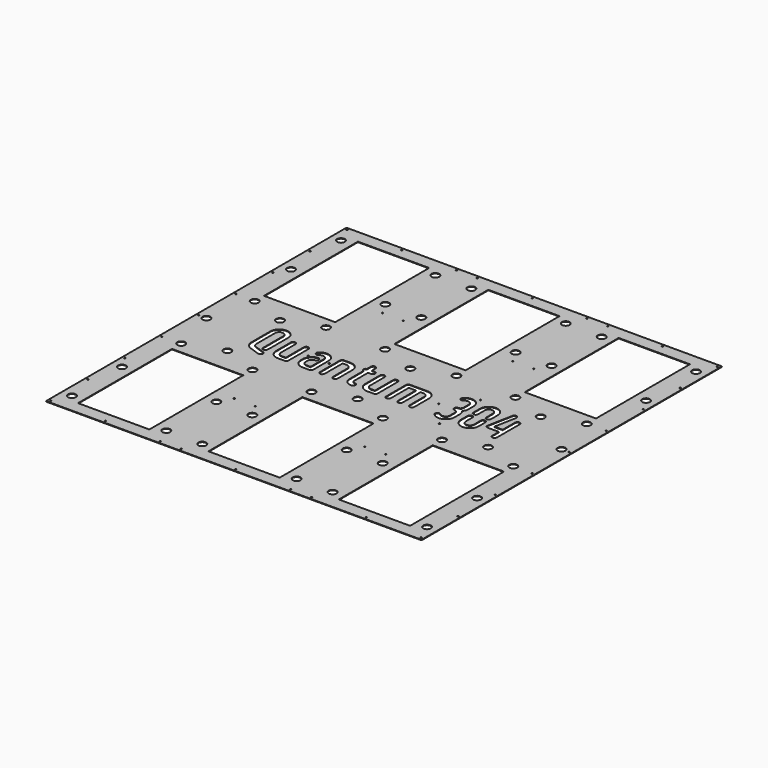
from build123d import *

# Parameters (mm, degrees)
F0_W     = 914.4
F0_H     = 914.4
F0_R     = 1.5875
F0_R_2   = 9.525
F0_W_2   = 173.5836
F0_H_2   = 286.004
F1_DEPTH = 1.27


with BuildPart() as f1:
    # F0 (on Top) → F1 (new body)
    with BuildSketch(Plane.XY):
        with Locations((-14.713987, 60.998162)):
            Rectangle(F0_W, F0_H)
        with Locations((-465.563987, -389.851838)):
            Circle(F0_R, mode=Mode.SUBTRACT)
        with Locations((-447.148987, -348.576838)):
            Circle(F0_R_2, mode=Mode.SUBTRACT)
        with Locations((-332.213987, -389.851838)):
            Circle(F0_R, mode=Mode.SUBTRACT)
        with Locations((-465.563987, -277.139338)):
            Circle(F0_R, mode=Mode.SUBTRACT)
        with Locations((-447.148987, -196.176838)):
            Circle(F0_R_2, mode=Mode.SUBTRACT)
        with Locations((-332.213987, -221.957838)):
            Rectangle(F0_W_2, F0_H_2, mode=Mode.SUBTRACT)
        with Locations((-198.863987, -389.851838)):
            Circle(F0_R, mode=Mode.SUBTRACT)
        with Locations((-217.278987, -348.576838)):
            Circle(F0_R_2, mode=Mode.SUBTRACT)
        with Locations((-148.063987, -389.851838)):
            Circle(F0_R, mode=Mode.SUBTRACT)
        with Locations((-129.648987, -348.576838)):
            Circle(F0_R_2, mode=Mode.SUBTRACT)
        with Locations((-217.278987, -196.176838)):
            Circle(F0_R_2, mode=Mode.SUBTRACT)
        with Locations((-129.648987, -196.176838)):
            Circle(F0_R_2, mode=Mode.SUBTRACT)
        with Locations((-465.563987, -164.426838)):
            Circle(F0_R, mode=Mode.SUBTRACT)
        with Locations((-465.563987, -51.714338)):
            Circle(F0_R, mode=Mode.SUBTRACT)
        with Locations((-419.005787, -50.888838)):
            Circle(F0_R_2, mode=Mode.SUBTRACT)
        with Locations((-465.563987, 60.998162)):
            Circle(F0_R, mode=Mode.SUBTRACT)
        with Locations((-447.148987, 60.998162)):
            Circle(F0_R_2, mode=Mode.SUBTRACT)
        with Locations((-332.213987, -19.138838)):
            Circle(F0_R_2, mode=Mode.SUBTRACT)
        with Locations((-245.422187, -50.888838)):
            Circle(F0_R_2, mode=Mode.SUBTRACT)
        with Locations((-198.863987, -164.426838)):
            Circle(F0_R, mode=Mode.SUBTRACT)
        with Locations((-148.063987, -164.426838)):
            Circle(F0_R, mode=Mode.SUBTRACT)
        Polygon((-258.894907, 34.111739), (-259.189737, 36.1757), (-259.337227, 38.387076), (-259.337227, 82.98294), (-259.263482, 83.498931), (-259.189737, 84.08859), (-259.042322, 84.604581), (-258.894907, 85.120571), (-258.673747, 85.636561), (-258.378917, 86.152551), (-258.010341, 86.594796), (-257.641842, 87.037117), (-257.199521, 87.405692), (-256.757276, 87.774192), (-256.241286, 88.069097), (-255.725296, 88.290182), (-255.209306, 88.437672), (-254.693315, 88.585087), (-254.103655, 88.658757), (-253.587665, 88.732502), (-252.99793, 88.658757), (-252.40827, 88.585087), (-251.89228, 88.437672), (-251.376289, 88.290182), (-250.860299, 88.069097), (-250.344309, 87.774192), (-249.902064, 87.405692), (-249.459744, 87.037117), (-249.091168, 86.594796), (-248.722669, 86.152551), (-248.427763, 85.636561), (-248.206678, 85.120571), (-248.059188, 84.604581), (-247.911773, 84.08859), (-247.838103, 83.498931), (-247.838103, 82.98294), (-247.838103, 38.387076), (-247.764358, 37.355095), (-247.616943, 36.396785), (-247.395783, 35.43855), (-247.100953, 34.553984), (-246.658708, 33.669494), (-246.142718, 32.858599), (-245.552982, 32.047778), (-244.889577, 31.236958), (-244.078757, 30.573553), (-243.267937, 29.983818), (-242.457117, 29.467903), (-241.572551, 29.025583), (-240.687986, 28.730753), (-239.729751, 28.509592), (-238.771515, 28.362177), (-237.739535, 28.288508), (-227.640967, 28.288508), (-227.640967, 82.98294), (-227.640967, 83.498931), (-227.567221, 84.08859), (-227.419806, 84.604581), (-227.272392, 85.120571), (-227.051231, 85.636561), (-226.756401, 86.152551), (-226.387826, 86.594796), (-226.019251, 87.037117), (-225.577006, 87.405692), (-225.134761, 87.774192), (-224.618771, 88.069097), (-224.102781, 88.290182), (-223.58679, 88.437672), (-223.0708, 88.585087), (-222.481065, 88.658757), (-221.891405, 88.732502), (-221.375415, 88.658757), (-220.785679, 88.585087), (-220.269689, 88.437672), (-219.753699, 88.290182), (-219.237784, 88.069097), (-218.721794, 87.774192), (-218.279473, 87.405692), (-217.837228, 87.037117), (-217.468653, 86.594796), (-217.100078, 86.152551), (-216.805248, 85.636561), (-216.584088, 85.120571), (-216.436673, 84.604581), (-216.289258, 84.08859), (-216.215513, 83.498931), (-216.141843, 82.98294), (-216.141843, 22.538946), (-216.215513, 22.022955), (-216.289258, 21.43322), (-216.436673, 20.91723), (-216.584088, 20.40124), (-216.805248, 19.885249), (-217.100078, 19.369259), (-217.468653, 18.927014), (-217.837228, 18.484769), (-218.279473, 18.116194), (-218.721794, 17.747619), (-219.237784, 17.452789), (-219.753699, 17.231629), (-220.269689, 17.084214), (-220.785679, 16.936799), (-221.375415, 16.863053), (-221.891405, 16.789384), (-237.739535, 16.789384), (-239.950911, 16.936799), (-242.014796, 17.231629), (-244.078757, 17.747619), (-245.995303, 18.411024), (-247.838103, 19.295589), (-249.680904, 20.40124), (-251.376289, 21.65438), (-252.99793, 23.128606), (-254.472155, 24.750321), (-255.725296, 26.445632), (-256.830946, 28.288508), (-257.715511, 30.131308), (-258.378917, 32.047778), align=None, mode=Mode.SUBTRACT)
        with Locations((-198.863987, 60.998162)):
            Circle(F0_R, mode=Mode.SUBTRACT)
        Polygon((-198.893157, 44.210308), (-198.819487, 46.421683), (-198.524582, 48.485644), (-198.008667, 50.549529), (-197.345186, 52.466075), (-196.386951, 54.308876), (-195.354971, 56.151676), (-194.02816, 57.847062), (-192.553935, 59.468702), (-191.153379, 60.795588), (-189.605409, 61.901238), (-188.057514, 62.933219), (-186.435798, 63.817784), (-184.740412, 64.481189), (-182.971357, 65.070849), (-181.128556, 65.439425), (-179.285756, 65.734254), (-178.548605, 65.660585), (-177.8852, 65.586839), (-177.295465, 65.439425), (-176.705805, 65.29201), (-176.116069, 64.99718), (-175.600155, 64.702274), (-175.157834, 64.407444), (-174.715589, 63.965199), (-174.347014, 63.522879), (-173.978439, 63.080634), (-173.683609, 62.564644), (-173.462449, 62.122399), (-173.241364, 61.606408), (-173.093873, 61.090418), (-173.020204, 60.500683), (-173.020204, 59.984693), (-173.020204, 59.395033), (-173.093873, 58.805297), (-173.241364, 58.289307), (-173.462449, 57.773392), (-173.683609, 57.257402), (-173.978439, 56.815082), (-174.273269, 56.372837), (-174.641844, 55.930516), (-175.084165, 55.562016), (-175.452664, 55.267111), (-175.894985, 54.972281), (-176.33723, 54.751121), (-176.77955, 54.530036), (-177.221795, 54.382621), (-177.66404, 54.308876), (-178.18003, 54.235206), (-179.064596, 54.087716), (-179.949161, 53.940301), (-180.759981, 53.719216), (-181.570801, 53.350641), (-182.307952, 52.982065), (-183.045027, 52.466075), (-183.782177, 51.950085), (-184.445582, 51.28668), (-185.108988, 50.549529), (-185.772393, 49.738709), (-186.214713, 48.927889), (-186.656958, 48.043324), (-186.951788, 47.158834), (-187.246618, 46.200523), (-187.320363, 45.242288), (-187.394109, 44.210308), (-187.394109, 38.387076), (-187.320363, 37.355095), (-187.246618, 36.396785), (-186.951788, 35.43855), (-186.656958, 34.553984), (-186.214713, 33.669494), (-185.772393, 32.858599), (-185.108988, 32.047778), (-184.445582, 31.236958), (-183.708432, 30.573553), (-182.897612, 29.983818), (-182.086792, 29.467903), (-181.202226, 29.025583), (-180.317736, 28.730753), (-179.359426, 28.509592), (-178.327445, 28.362177), (-177.295465, 28.288508), (-167.270642, 28.288508), (-167.270642, 68.535366), (-167.344387, 69.493601), (-167.491802, 70.525581), (-167.712887, 71.483816), (-168.081462, 72.368382), (-168.450037, 73.252947), (-168.966027, 74.063767), (-169.555687, 74.874588), (-170.219092, 75.611738), (-171.029988, 76.275143), (-171.767063, 76.938548), (-172.651628, 77.380793), (-173.462449, 77.823114), (-174.420759, 78.117944), (-175.378994, 78.412774), (-176.33723, 78.486519), (-177.36921, 78.560189), (-178.40119, 78.486519), (-179.433171, 78.339029), (-180.391406, 78.117944), (-181.275971, 77.823114), (-182.160537, 77.380793), (-183.045027, 76.864803), (-183.855922, 76.275143), (-184.666743, 75.537993), (-185.035318, 75.169418), (-185.477563, 74.800842), (-185.993553, 74.506012), (-186.435798, 74.284928), (-186.951788, 74.063767), (-187.541524, 73.916352), (-188.057514, 73.842607), (-188.720919, 73.842607), (-189.236909, 73.842607), (-189.826569, 73.916352), (-190.342559, 74.063767), (-190.85855, 74.211182), (-191.37454, 74.506012), (-191.89053, 74.800842), (-192.332775, 75.095748), (-192.775095, 75.537993), (-193.143595, 75.906568), (-193.51217, 76.422558), (-193.807, 76.864803), (-194.02816, 77.380793), (-194.175575, 77.896784), (-194.32299, 78.412774), (-194.396736, 79.002509), (-194.470481, 79.592169), (-194.396736, 80.108159), (-194.32299, 80.697819), (-194.175575, 81.21381), (-194.02816, 81.7298), (-193.807, 82.24579), (-193.51217, 82.68811), (-193.143595, 83.130355), (-192.775095, 83.5726), (-191.153379, 85.120571), (-189.384324, 86.447381), (-187.615193, 87.553107), (-185.698723, 88.511342), (-183.708432, 89.248492), (-181.718216, 89.690737), (-179.580586, 90.059313), (-177.36921, 90.132982), (-175.231579, 90.059313), (-173.093873, 89.764483), (-171.103658, 89.248492), (-169.113442, 88.585087), (-167.270642, 87.626777), (-165.501511, 86.594796), (-163.806201, 85.267986), (-162.184485, 83.793761), (-160.71026, 82.17212), (-159.383449, 80.476735), (-158.277724, 78.707604), (-157.393234, 76.791133), (-156.729829, 74.874588), (-156.213838, 72.810627), (-155.918933, 70.672996), (-155.771518, 68.535366), (-155.771518, 22.538946), (-155.771518, 22.022955), (-155.845263, 21.43322), (-155.992678, 20.91723), (-156.213838, 20.40124), (-156.434923, 19.885249), (-156.729829, 19.369259), (-157.098328, 18.927014), (-157.466903, 18.484769), (-157.909224, 18.116194), (-158.351469, 17.747619), (-158.793714, 17.452789), (-159.309704, 17.231629), (-159.825694, 17.084214), (-160.341684, 16.936799), (-160.93142, 16.863053), (-161.52108, 16.789384), (-177.295465, 16.789384), (-179.506841, 16.936799), (-181.644547, 17.231629), (-183.634762, 17.747619), (-185.624978, 18.411024), (-187.467778, 19.295589), (-189.236909, 20.40124), (-190.932295, 21.65438), (-192.553935, 23.128606), (-194.02816, 24.750321), (-195.354971, 26.445632), (-196.386951, 28.288508), (-197.345186, 30.131308), (-198.008667, 32.047778), (-198.524582, 34.111739), (-198.819487, 36.1757), (-198.893157, 38.387076), align=None, mode=Mode.SUBTRACT)
        with Locations((-148.063987, 60.998162)):
            Circle(F0_R, mode=Mode.SUBTRACT)
        with Locations((-101.505787, -50.888838)):
            Circle(F0_R_2, mode=Mode.SUBTRACT)
        Polygon((-139.702303, 20.91723), (-139.849718, 21.43322), (-139.923388, 22.022955), (-139.923388, 22.538946), (-139.923388, 82.98294), (-139.923388, 83.498931), (-139.849718, 84.08859), (-139.702303, 84.604581), (-139.481143, 85.120571), (-139.259982, 85.636561), (-138.965152, 86.152551), (-138.596577, 86.594796), (-138.228002, 87.037117), (-137.785757, 87.405692), (-137.343512, 87.774192), (-136.901192, 88.069097), (-136.385201, 88.290182), (-135.869211, 88.437672), (-135.353221, 88.585087), (-134.763561, 88.658757), (-134.173826, 88.732502), (-118.399441, 88.732502), (-116.188065, 88.585087), (-114.050434, 88.290182), (-112.060219, 87.774192), (-110.069928, 87.110786), (-108.227127, 86.226297), (-106.458072, 85.120571), (-104.762686, 83.867506), (-103.141046, 82.393205), (-101.666745, 80.771565), (-100.339935, 79.076179), (-99.307954, 77.233378), (-98.349719, 75.390578), (-97.686314, 73.474032), (-97.170324, 71.410147), (-96.875494, 69.346186), (-96.801749, 67.13481), (-96.801749, 22.538946), (-96.801749, 22.022955), (-96.875494, 21.43322), (-97.022909, 20.91723), (-97.244069, 20.40124), (-97.465154, 19.885249), (-97.760059, 19.369259), (-98.128559, 18.927014), (-98.497134, 18.484769), (-98.939455, 18.116194), (-99.3817, 17.747619), (-99.823944, 17.452789), (-100.339935, 17.231629), (-100.855925, 17.084214), (-101.371915, 16.936799), (-101.961651, 16.863053), (-102.55131, 16.789384), (-103.141046, 16.863053), (-103.730706, 16.936799), (-104.246696, 17.084214), (-104.762686, 17.231629), (-105.278676, 17.452789), (-105.720921, 17.747619), (-106.163242, 18.116194), (-106.605487, 18.484769), (-106.974062, 18.927014), (-107.342637, 19.369259), (-107.637467, 19.885249), (-107.858627, 20.40124), (-108.079712, 20.91723), (-108.227127, 21.43322), (-108.300872, 22.022955), (-108.300872, 22.538946), (-108.300872, 67.13481), (-108.374618, 68.16679), (-108.448287, 69.125026), (-108.743117, 70.083261), (-109.038023, 70.967826), (-109.480268, 71.852392), (-109.922513, 72.663212), (-110.585918, 73.474032), (-111.249323, 74.284928), (-111.986474, 74.948333), (-112.797294, 75.537993), (-113.608114, 76.053983), (-114.492679, 76.496228), (-115.377245, 76.791133), (-116.33548, 77.012218), (-117.36746, 77.159633), (-118.399441, 77.233378), (-128.424339, 77.233378), (-128.424339, 22.538946), (-128.424339, 22.022955), (-128.498009, 21.43322), (-128.645424, 20.91723), (-128.866584, 20.40124), (-129.087744, 19.885249), (-129.382574, 19.369259), (-129.75115, 18.927014), (-130.119649, 18.484769), (-130.56197, 18.116194), (-131.004215, 17.747619), (-131.446535, 17.452789), (-131.962525, 17.231629), (-132.47844, 17.084214), (-132.99443, 16.936799), (-133.584166, 16.863053), (-134.173826, 16.789384), (-134.763561, 16.863053), (-135.353221, 16.936799), (-135.869211, 17.084214), (-136.385201, 17.231629), (-136.901192, 17.452789), (-137.343512, 17.747619), (-137.785757, 18.116194), (-138.228002, 18.484769), (-138.596577, 18.927014), (-138.965152, 19.369259), (-139.259982, 19.885249), (-139.481143, 20.40124), align=None, mode=Mode.SUBTRACT)
        Polygon((-41.738741, 34.111739), (-42.033571, 36.1757), (-42.180986, 38.387076), (-42.180986, 82.98294), (-42.107316, 83.498931), (-42.033571, 84.08859), (-41.886156, 84.604581), (-41.738741, 85.120571), (-41.51758, 85.636561), (-41.22275, 86.152551), (-40.854175, 86.594796), (-40.4856, 87.037117), (-40.043355, 87.405692), (-39.60111, 87.774192), (-39.08512, 88.069097), (-38.56913, 88.290182), (-38.053139, 88.437672), (-37.537149, 88.585087), (-36.947414, 88.658757), (-36.431499, 88.732502), (-35.841764, 88.658757), (-35.252104, 88.585087), (-34.736113, 88.437672), (-34.220123, 88.290182), (-33.704133, 88.069097), (-33.188143, 87.774192), (-32.745822, 87.405692), (-32.303577, 87.037117), (-31.935002, 86.594796), (-31.566427, 86.152551), (-31.271597, 85.636561), (-31.050437, 85.120571), (-30.903022, 84.604581), (-30.755607, 84.08859), (-30.681937, 83.498931), (-30.681937, 82.98294), (-30.681937, 38.387076), (-30.608192, 37.355095), (-30.460777, 36.396785), (-30.239617, 35.43855), (-29.944787, 34.553984), (-29.502542, 33.669494), (-28.986552, 32.858599), (-28.396816, 32.047778), (-27.733411, 31.236958), (-26.922591, 30.573553), (-26.111771, 29.983818), (-25.30095, 29.467903), (-24.416385, 29.025583), (-23.53182, 28.730753), (-22.573584, 28.509592), (-21.615274, 28.362177), (-20.583369, 28.288508), (-10.484801, 28.288508), (-10.484801, 82.98294), (-10.484801, 83.498931), (-10.411055, 84.08859), (-10.26364, 84.604581), (-10.116225, 85.120571), (-9.895065, 85.636561), (-9.600235, 86.152551), (-9.23166, 86.594796), (-8.863085, 87.037117), (-8.42084, 87.405692), (-7.978519, 87.774192), (-7.462529, 88.069097), (-6.946614, 88.290182), (-6.430624, 88.437672), (-5.914634, 88.585087), (-5.324899, 88.658757), (-4.735239, 88.732502), (-4.219248, 88.658757), (-3.629513, 88.585087), (-3.113523, 88.437672), (-2.597533, 88.290182), (-2.081542, 88.069097), (-1.565552, 87.774192), (-1.123307, 87.405692), (-0.681062, 87.037117), (-0.312487, 86.594796), (0.056088, 86.152551), (0.350918, 85.636561), (0.572078, 85.120571), (0.719493, 84.604581), (0.866908, 84.08859), (0.940654, 83.498931), (1.014323, 82.98294), (1.014323, 22.538946), (0.940654, 22.022955), (0.866908, 21.43322), (0.719493, 20.91723), (0.572078, 20.40124), (0.350918, 19.885249), (0.056088, 19.369259), (-0.312487, 18.927014), (-0.681062, 18.484769), (-1.123307, 18.116194), (-1.565552, 17.747619), (-2.081542, 17.452789), (-2.597533, 17.231629), (-3.113523, 17.084214), (-3.629513, 16.936799), (-4.219248, 16.863053), (-4.735239, 16.789384), (-20.583369, 16.789384), (-22.794669, 16.936799), (-24.85863, 17.231629), (-26.922591, 17.747619), (-28.839137, 18.411024), (-30.681937, 19.295589), (-32.524738, 20.40124), (-34.220123, 21.65438), (-35.841764, 23.128606), (-37.315989, 24.750321), (-38.56913, 26.445632), (-39.67478, 28.288508), (-40.559345, 30.131308), (-41.22275, 32.047778), align=None, mode=Mode.SUBTRACT)
        with Locations((-14.713987, -389.851838)):
            Circle(F0_R, mode=Mode.SUBTRACT)
        with Locations((118.636013, -389.851838)):
            Circle(F0_R, mode=Mode.SUBTRACT)
        with Locations((100.221013, -348.576838)):
            Circle(F0_R_2, mode=Mode.SUBTRACT)
        with Locations((169.436013, -389.851838)):
            Circle(F0_R, mode=Mode.SUBTRACT)
        with Locations((187.851013, -348.576838)):
            Circle(F0_R_2, mode=Mode.SUBTRACT)
        with Locations((-14.713987, -221.957838)):
            Rectangle(F0_W_2, F0_H_2, mode=Mode.SUBTRACT)
        with Locations((100.221013, -196.176838)):
            Circle(F0_R_2, mode=Mode.SUBTRACT)
        with Locations((187.851013, -196.176838)):
            Circle(F0_R_2, mode=Mode.SUBTRACT)
        with Locations((302.786013, -389.851838)):
            Circle(F0_R, mode=Mode.SUBTRACT)
        with Locations((436.136013, -389.851838)):
            Circle(F0_R, mode=Mode.SUBTRACT)
        with Locations((417.721013, -348.576838)):
            Circle(F0_R_2, mode=Mode.SUBTRACT)
        with Locations((302.786013, -221.957838)):
            Rectangle(F0_W_2, F0_H_2, mode=Mode.SUBTRACT)
        with Locations((436.136013, -277.139338)):
            Circle(F0_R, mode=Mode.SUBTRACT)
        with Locations((417.721013, -196.176838)):
            Circle(F0_R_2, mode=Mode.SUBTRACT)
        with Locations((118.636013, -164.426838)):
            Circle(F0_R, mode=Mode.SUBTRACT)
        with Locations((169.436013, -164.426838)):
            Circle(F0_R, mode=Mode.SUBTRACT)
        with Locations((-14.713987, -19.138838)):
            Circle(F0_R_2, mode=Mode.SUBTRACT)
        with Locations((72.077813, -50.888838)):
            Circle(F0_R_2, mode=Mode.SUBTRACT)
        Polygon((21.358875, 20.91723), (21.21146, 21.43322), (21.13779, 22.022955), (21.13779, 22.538946), (21.13779, 82.98294), (21.13779, 83.498931), (21.21146, 84.08859), (21.358875, 84.604581), (21.580035, 85.120571), (21.801195, 85.636561), (22.096025, 86.152551), (22.464601, 86.594796), (22.833176, 87.037117), (23.275421, 87.405692), (23.717666, 87.774192), (24.159986, 88.069097), (24.675976, 88.290182), (25.191967, 88.437672), (25.707957, 88.585087), (26.297617, 88.658757), (26.887352, 88.732502), (68.608436, 88.732502), (70.746066, 88.585087), (72.883772, 88.290182), (74.873988, 87.774192), (76.864203, 87.110786), (78.707004, 86.226297), (80.476135, 85.120571), (82.17152, 83.867506), (83.793161, 82.393205), (85.267386, 80.771565), (86.594196, 79.076179), (87.626177, 77.233378), (88.584412, 75.390578), (89.247893, 73.474032), (89.763807, 71.410147), (90.058713, 69.346186), (90.132383, 67.13481), (90.132383, 22.538946), (90.132383, 22.022955), (90.058713, 21.43322), (89.911298, 20.91723), (89.690138, 20.40124), (89.468977, 19.885249), (89.174147, 19.369259), (88.805572, 18.927014), (88.436997, 18.484769), (87.994752, 18.116194), (87.552507, 17.747619), (87.110187, 17.452789), (86.594196, 17.231629), (86.078206, 17.084214), (85.562216, 16.936799), (84.972556, 16.863053), (84.382821, 16.789384), (83.793161, 16.863053), (83.203425, 16.936799), (82.687435, 17.084214), (82.17152, 17.231629), (81.65553, 17.452789), (81.21321, 17.747619), (80.770965, 18.116194), (80.328644, 18.484769), (79.960145, 18.927014), (79.591569, 19.369259), (79.296739, 19.885249), (79.075579, 20.40124), (78.854419, 20.91723), (78.707004, 21.43322), (78.633334, 22.022955), (78.633334, 22.538946), (78.633334, 67.13481), (78.559589, 68.16679), (78.485844, 69.125026), (78.191014, 70.083261), (77.896184, 70.967826), (77.453939, 71.852392), (77.011618, 72.663212), (76.348213, 73.474032), (75.684808, 74.284928), (74.947657, 74.948333), (74.136837, 75.537993), (73.326017, 76.053983), (72.441452, 76.496228), (71.556962, 76.791133), (70.598651, 77.012218), (69.566671, 77.159633), (68.608436, 77.233378), (61.384648, 77.233378), (61.384648, 22.538946), (61.384648, 22.022955), (61.310903, 21.43322), (61.163488, 20.91723), (60.942403, 20.40124), (60.721243, 19.885249), (60.426413, 19.369259), (60.057838, 18.927014), (59.689263, 18.484769), (59.247018, 18.116194), (58.804697, 17.747619), (58.362452, 17.452789), (57.846462, 17.231629), (57.330472, 17.084214), (56.814482, 16.936799), (56.224822, 16.863053), (55.635086, 16.789384), (55.045426, 16.863053), (54.455691, 16.936799), (53.939701, 17.084214), (53.423711, 17.231629), (52.90772, 17.452789), (52.465475, 17.747619), (52.023155, 18.116194), (51.58091, 18.484769), (51.212335, 18.927014), (50.84376, 19.369259), (50.54893, 19.885249), (50.327845, 20.40124), (50.106685, 20.91723), (49.95927, 21.43322), (49.885524, 22.022955), (49.885524, 22.538946), (49.885524, 77.233378), (32.636914, 77.233378), (32.636914, 22.538946), (32.636914, 22.022955), (32.563169, 21.43322), (32.415754, 20.91723), (32.194594, 20.40124), (31.973433, 19.885249), (31.678603, 19.369259), (31.310028, 18.927014), (30.941528, 18.484769), (30.499208, 18.116194), (30.056963, 17.747619), (29.614643, 17.452789), (29.098728, 17.231629), (28.582738, 17.084214), (28.066747, 16.936799), (27.477012, 16.863053), (26.887352, 16.789384), (26.297617, 16.863053), (25.707957, 16.936799), (25.191967, 17.084214), (24.675976, 17.231629), (24.159986, 17.452789), (23.717666, 17.747619), (23.275421, 18.116194), (22.833176, 18.484769), (22.464601, 18.927014), (22.096025, 19.369259), (21.801195, 19.885249), (21.580035, 20.40124), align=None, mode=Mode.SUBTRACT)
        with Locations((170.332081, -1.426666)):
            Circle(F0_R, mode=Mode.SUBTRACT)
        Polygon((192.592366, 32.637514), (192.297536, 34.775144), (192.150121, 36.98652), (192.150121, 57.036242), (192.223791, 57.552232), (192.297536, 58.141892), (192.444951, 58.657882), (192.592366, 59.173872), (192.813526, 59.689863), (193.108356, 60.205853), (193.476932, 60.648098), (193.845507, 61.090418), (194.287752, 61.458993), (194.729997, 61.827493), (195.245987, 62.122399), (195.761977, 62.343483), (196.277967, 62.490974), (196.793958, 62.638389), (197.383693, 62.712059), (197.899683, 62.785804), (198.489343, 62.712059), (199.079079, 62.638389), (199.595069, 62.490974), (200.111059, 62.343483), (200.626974, 62.122399), (201.142964, 61.827493), (201.585284, 61.458993), (202.027529, 61.090418), (202.396105, 60.648098), (202.76468, 60.205853), (203.05951, 59.689863), (203.28067, 59.173872), (203.428085, 58.657882), (203.5755, 58.141892), (203.649245, 57.552232), (203.649245, 57.036242), (203.649245, 36.98652), (203.722915, 35.95454), (203.87033, 34.922559), (204.09149, 33.964324), (204.38632, 33.079759), (204.828641, 32.195193), (205.344555, 31.384373), (205.934291, 30.573553), (206.597696, 29.836403), (207.408516, 29.172997), (208.219336, 28.509592), (209.030232, 28.067347), (209.914722, 27.625027), (210.799287, 27.330197), (211.757522, 27.035367), (212.715833, 26.961622), (213.747813, 26.887952), (214.779718, 26.961622), (215.738029, 27.035367), (216.696264, 27.330197), (217.58083, 27.625027), (218.465395, 28.067347), (219.276215, 28.509592), (220.087035, 29.172997), (220.897855, 29.836403), (221.561261, 30.573553), (222.150996, 31.384373), (222.666986, 32.195193), (223.109231, 33.079759), (223.404061, 33.964324), (223.625221, 34.922559), (223.772636, 35.95454), (223.846382, 36.98652), (223.846382, 57.036242), (223.846382, 57.552232), (223.920051, 58.141892), (224.067466, 58.657882), (224.214881, 59.173872), (224.436042, 59.689863), (224.730872, 60.205853), (225.099447, 60.648098), (225.468022, 61.090418), (225.910267, 61.458993), (226.352587, 61.827493), (226.868578, 62.122399), (227.384568, 62.343483), (227.900558, 62.490974), (228.416548, 62.638389), (229.006208, 62.712059), (229.595944, 62.785804), (230.111858, 62.712059), (230.701594, 62.638389), (231.217584, 62.490974), (231.733574, 62.343483), (232.249564, 62.122399), (232.765555, 61.827493), (233.2078, 61.458993), (233.650045, 61.090418), (234.01862, 60.648098), (234.387195, 60.205853), (234.682025, 59.689863), (234.903185, 59.173872), (235.0506, 58.657882), (235.198015, 58.141892), (235.27176, 57.552232), (235.34543, 57.036242), (235.34543, 36.98652), (235.198015, 34.775144), (234.903185, 32.637514), (234.387195, 30.647298), (233.72379, 28.657007), (232.839224, 26.814207), (231.733574, 25.045151), (230.480434, 23.349766), (229.006208, 21.72805), (227.384568, 20.253825), (225.689182, 18.927014), (223.846382, 17.895034), (222.003581, 16.936799), (220.087035, 16.273393), (218.023075, 15.757403), (215.959114, 15.462573), (213.747813, 15.388828), (211.536438, 15.462573), (209.472477, 15.757403), (207.408516, 16.273393), (205.492046, 16.936799), (203.649245, 17.895034), (201.806369, 18.927014), (200.111059, 20.253825), (198.489343, 21.72805), (197.015118, 23.349766), (195.761977, 25.045151), (194.656327, 26.814207), (193.771762, 28.657007), (193.108356, 30.647298), align=None, mode=Mode.SUBTRACT)
        with Locations((436.136013, -164.426838)):
            Circle(F0_R, mode=Mode.SUBTRACT)
        with Locations((215.994213, -50.888838)):
            Circle(F0_R_2, mode=Mode.SUBTRACT)
        with Locations((302.786013, -19.138838)):
            Circle(F0_R_2, mode=Mode.SUBTRACT)
        with Locations((389.577813, -50.888838)):
            Circle(F0_R_2, mode=Mode.SUBTRACT)
        with Locations((436.136013, -51.714338)):
            Circle(F0_R, mode=Mode.SUBTRACT)
        with Locations((-465.563987, 173.710662)):
            Circle(F0_R, mode=Mode.SUBTRACT)
        with Locations((-419.005787, 172.885162)):
            Circle(F0_R_2, mode=Mode.SUBTRACT)
        Polygon((-318.233251, 94.482064), (-318.159506, 96.619695), (-317.864676, 98.757325), (-317.348686, 100.747541), (-316.685281, 102.737832), (-315.727046, 104.580632), (-314.695065, 106.349688), (-313.368255, 108.045073), (-311.894029, 109.666789), (-310.272314, 111.141015), (-308.576928, 112.467825), (-306.807873, 113.499805), (-304.965072, 114.458041), (-302.974856, 115.121446), (-300.984565, 115.637436), (-298.846935, 115.932266), (-296.635559, 116.006011), (-294.497929, 115.932266), (-292.360298, 115.637436), (-290.370007, 115.121446), (-288.379791, 114.458041), (-286.536991, 113.499805), (-284.767935, 112.467825), (-283.07255, 111.141015), (-281.450834, 109.666789), (-279.976609, 108.045073), (-278.649798, 106.349688), (-277.617818, 104.580632), (-276.659583, 102.737832), (-275.996178, 100.747541), (-275.480187, 98.757325), (-275.185282, 96.619695), (-275.111612, 94.482064), (-275.111612, 36.98652), (-275.111612, 36.323115), (-275.111612, 35.65971), (-275.185282, 34.996305), (-275.259027, 34.332899), (-275.332772, 33.743164), (-275.406442, 33.079759), (-275.480187, 32.490099), (-275.627602, 31.826694), (-275.701272, 31.458119), (-275.848763, 31.015798), (-275.996178, 30.647298), (-276.143593, 30.278723), (-276.364677, 29.983818), (-276.585838, 29.615318), (-276.880668, 29.320412), (-277.175573, 28.951913), (-277.617818, 28.583338), (-278.133808, 28.214762), (-278.576053, 27.919932), (-279.092043, 27.698772), (-279.608033, 27.477612), (-280.124024, 27.330197), (-280.713759, 27.256527), (-281.303419, 27.256527), (-281.893155, 27.256527), (-282.409145, 27.330197), (-282.998805, 27.477612), (-283.514795, 27.698772), (-283.95704, 27.919932), (-284.47303, 28.214762), (-284.91535, 28.509592), (-285.357595, 28.951913), (-285.726171, 29.394158), (-286.094746, 29.836403), (-286.389576, 30.278723), (-286.610736, 30.794713), (-286.831821, 31.310704), (-286.905566, 31.826694), (-286.979236, 32.416354), (-287.052981, 33.006089), (-287.052981, 33.153504), (-287.052981, 33.300919), (-287.052981, 33.448334), (-287.052981, 33.595749), (-286.979236, 33.743164), (-286.979236, 33.964324), (-286.979236, 34.111739), (-286.979236, 34.259154), (-286.905566, 34.627729), (-286.831821, 34.922559), (-286.758151, 35.291135), (-286.684406, 35.585965), (-286.684406, 35.95454), (-286.610736, 36.24937), (-286.610736, 36.617945), (-286.610736, 36.98652), (-286.610736, 94.482064), (-286.684406, 95.440299), (-286.758151, 96.47228), (-287.052981, 97.430515), (-287.347811, 98.31508), (-287.790131, 99.199646), (-288.232376, 100.010466), (-288.895782, 100.821286), (-289.559187, 101.558437), (-290.296337, 102.221842), (-291.107157, 102.885247), (-291.917978, 103.327492), (-292.802543, 103.769812), (-293.687108, 104.064642), (-294.645344, 104.359472), (-295.677324, 104.433218), (-296.635559, 104.506887), (-297.66754, 104.433218), (-298.69952, 104.359472), (-299.657755, 104.064642), (-300.54232, 103.769812), (-301.426886, 103.327492), (-302.237706, 102.885247), (-303.048526, 102.221842), (-303.785677, 101.558437), (-304.449082, 100.821286), (-305.112487, 100.010466), (-305.554732, 99.199646), (-305.997052, 98.31508), (-306.291882, 97.430515), (-306.586712, 96.47228), (-306.660458, 95.440299), (-306.734127, 94.482064), (-306.734127, 36.98652), (-306.660458, 35.95454), (-306.586712, 34.996305), (-306.365552, 34.111739), (-306.070722, 33.227174), (-305.628477, 32.416354), (-305.186157, 31.679203), (-304.596497, 30.942128), (-303.933092, 30.278723), (-303.269686, 29.688988), (-302.532536, 29.099328), (-301.795461, 28.583338), (-300.984565, 28.141017), (-300.24749, 27.772517), (-299.362925, 27.403942), (-298.552105, 27.109112), (-297.66754, 26.814207), (-275.627602, 19.148174), (-275.037867, 18.927014), (-274.521877, 18.632184), (-274.079632, 18.337354), (-273.637387, 17.968779), (-273.195066, 17.600204), (-272.826491, 17.157959), (-272.531661, 16.715638), (-272.236831, 16.199648), (-272.089416, 15.831073), (-272.015671, 15.536243), (-271.868256, 15.241413), (-271.794586, 14.872838), (-271.720841, 14.578008), (-271.720841, 14.283178), (-271.647096, 13.988272), (-271.647096, 13.693442), (-271.647096, 13.472282), (-271.647096, 13.251198), (-271.720841, 13.030037), (-271.720841, 12.808877), (-271.794586, 12.587792), (-271.794586, 12.366632), (-271.868256, 12.071802), (-271.942001, 11.850642), (-272.163086, 11.334652), (-272.457991, 10.818662), (-272.752821, 10.302671), (-273.047651, 9.860426), (-273.489972, 9.491851), (-273.932217, 9.123276), (-274.374462, 8.754701), (-274.890452, 8.459871), (-275.185282, 8.386201), (-275.553857, 8.238711), (-275.848763, 8.165041), (-276.143593, 8.091296), (-276.512168, 8.017626), (-276.806998, 7.943881), (-277.101828, 7.943881), (-277.396658, 7.943881), (-277.617818, 7.943881), (-277.912648, 7.943881), (-278.133808, 7.943881), (-278.354968, 8.017626), (-278.576053, 8.017626), (-278.797213, 8.091296), (-279.018374, 8.165041), (-279.313204, 8.238711), (-302.385121, 16.125978), (-303.859346, 16.641969), (-305.186157, 17.231629), (-306.513043, 17.895034), (-307.692438, 18.558439), (-308.871833, 19.295589), (-309.977484, 20.03274), (-310.935719, 20.84356), (-311.894029, 21.72805), (-313.368255, 23.349766), (-314.695065, 25.045151), (-315.727046, 26.814207), (-316.685281, 28.657007), (-317.348686, 30.647298), (-317.864676, 32.637514), (-318.159506, 34.775144), (-318.233251, 36.98652), align=None, mode=Mode.SUBTRACT)
        with Locations((-332.213987, 141.135162)):
            Circle(F0_R_2, mode=Mode.SUBTRACT)
        with Locations((-245.422187, 172.885162)):
            Circle(F0_R_2, mode=Mode.SUBTRACT)
        with Locations((-465.563987, 286.423162)):
            Circle(F0_R, mode=Mode.SUBTRACT)
        Polygon((-82.206759, 81.287555), (-82.354174, 81.803545), (-82.427919, 82.393205), (-82.427919, 82.98294), (-82.427919, 83.498931), (-82.354174, 84.08859), (-82.206759, 84.604581), (-82.059344, 85.120571), (-81.764438, 85.636561), (-81.469609, 86.152551), (-81.174779, 86.594796), (-80.732534, 87.037117), (-80.437628, 87.331947), (-80.142798, 87.553107), (-79.847968, 87.774192), (-79.479393, 87.995352), (-79.184563, 88.142767), (-78.815988, 88.290182), (-78.447413, 88.437672), (-78.078837, 88.585087), (-78.078837, 100.157881), (-78.078837, 100.673871), (-78.005168, 101.263531), (-77.857753, 101.779521), (-77.636592, 102.295511), (-77.415432, 102.811502), (-77.120602, 103.327492), (-76.752027, 103.769812), (-76.383452, 104.212057), (-75.941207, 104.580632), (-75.425217, 104.949208), (-74.982972, 105.244038), (-74.466981, 105.465122), (-73.950991, 105.612613), (-73.435001, 105.760028), (-72.919011, 105.833698), (-72.329275, 105.907443), (-71.739615, 105.833698), (-71.14988, 105.760028), (-70.633965, 105.612613), (-70.117975, 105.465122), (-69.601985, 105.244038), (-69.159664, 104.949208), (-68.717419, 104.580632), (-68.275175, 104.212057), (-67.906599, 103.769812), (-67.538024, 103.327492), (-67.243194, 102.811502), (-67.022034, 102.295511), (-66.800874, 101.779521), (-66.653459, 101.263531), (-66.579789, 100.673871), (-66.579789, 100.157881), (-66.579789, 88.732502), (-59.355926, 88.732502), (-58.840011, 88.658757), (-58.250276, 88.585087), (-57.734286, 88.437672), (-57.218296, 88.290182), (-56.702305, 88.069097), (-56.186315, 87.774192), (-55.74407, 87.405692), (-55.301825, 87.037117), (-54.93325, 86.594796), (-54.564675, 86.152551), (-54.269845, 85.636561), (-54.048685, 85.120571), (-53.90127, 84.604581), (-53.753855, 84.08859), (-53.680109, 83.498931), (-53.60644, 82.98294), (-53.680109, 82.393205), (-53.753855, 81.803545), (-53.90127, 81.287555), (-54.048685, 80.771565), (-54.269845, 80.255574), (-54.564675, 79.739584), (-54.93325, 79.297339), (-55.301825, 78.855019), (-55.74407, 78.486519), (-56.186315, 78.117944), (-56.702305, 77.823114), (-57.218296, 77.601954), (-57.734286, 77.454539), (-58.250276, 77.307124), (-58.840011, 77.233378), (-59.355926, 77.233378), (-66.579789, 77.233378), (-66.579789, 35.512295), (-66.579789, 34.775144), (-66.432298, 34.037994), (-66.284883, 33.374589), (-66.063799, 32.711184), (-65.768893, 32.121524), (-65.400394, 31.531788), (-64.958073, 30.942128), (-64.515828, 30.426138), (-63.926093, 29.910148), (-63.410102, 29.467903), (-62.820443, 29.172997), (-62.157037, 28.878168), (-61.493632, 28.583338), (-60.830227, 28.435923), (-60.166822, 28.362177), (-59.355926, 28.288508), (-58.766266, 28.288508), (-58.250276, 28.214762), (-57.660616, 28.067347), (-57.144626, 27.919932), (-56.628636, 27.625027), (-56.186315, 27.330197), (-55.670325, 27.035367), (-55.22808, 26.593122), (-54.859505, 26.150802), (-54.49093, 25.708557), (-54.1961, 25.192566), (-53.974939, 24.750321), (-53.827524, 24.234331), (-53.680109, 23.718341), (-53.60644, 23.128606), (-53.60644, 22.538946), (-53.60644, 22.022955), (-53.680109, 21.43322), (-53.827524, 20.91723), (-53.974939, 20.40124), (-54.1961, 19.885249), (-54.49093, 19.369259), (-54.859505, 18.927014), (-55.22808, 18.484769), (-55.670325, 18.116194), (-56.186315, 17.747619), (-56.628636, 17.452789), (-57.144626, 17.231629), (-57.660616, 17.084214), (-58.250276, 16.936799), (-58.766266, 16.863053), (-59.355926, 16.789384), (-61.272472, 16.936799), (-63.115273, 17.157959), (-64.884403, 17.600204), (-66.506044, 18.189864), (-68.127684, 19.000759), (-69.675655, 19.885249), (-71.14988, 21.064645), (-72.550436, 22.317785), (-73.877246, 23.718341), (-74.982972, 25.192566), (-75.941207, 26.740537), (-76.678357, 28.362177), (-77.341762, 30.057563), (-77.710338, 31.826694), (-78.005168, 33.595749), (-78.078837, 35.512295), (-78.078837, 77.307124), (-78.447413, 77.454539), (-78.815988, 77.601954), (-79.184563, 77.749369), (-79.479393, 77.896784), (-79.847968, 78.117944), (-80.142798, 78.339029), (-80.437628, 78.633934), (-80.732534, 78.928764), (-81.174779, 79.371009), (-81.469609, 79.813329), (-81.764438, 80.32932), (-82.059344, 80.771565), align=None, mode=Mode.SUBTRACT)
        with Locations((-101.505787, 172.885162)):
            Circle(F0_R_2, mode=Mode.SUBTRACT)
        with Locations((-198.863987, 286.423162)):
            Circle(F0_R, mode=Mode.SUBTRACT)
        with Locations((-148.063987, 286.423162)):
            Circle(F0_R, mode=Mode.SUBTRACT)
        with Locations((-447.148987, 318.173162)):
            Circle(F0_R_2, mode=Mode.SUBTRACT)
        with Locations((-465.563987, 399.135662)):
            Circle(F0_R, mode=Mode.SUBTRACT)
        with Locations((-332.213987, 343.954162)):
            Rectangle(F0_W_2, F0_H_2, mode=Mode.SUBTRACT)
        with Locations((-447.148987, 470.573162)):
            Circle(F0_R_2, mode=Mode.SUBTRACT)
        with Locations((-465.563987, 511.848162)):
            Circle(F0_R, mode=Mode.SUBTRACT)
        with Locations((-332.213987, 511.848162)):
            Circle(F0_R, mode=Mode.SUBTRACT)
        with Locations((-217.278987, 318.173162)):
            Circle(F0_R_2, mode=Mode.SUBTRACT)
        with Locations((-129.648987, 318.173162)):
            Circle(F0_R_2, mode=Mode.SUBTRACT)
        with Locations((-217.278987, 470.573162)):
            Circle(F0_R_2, mode=Mode.SUBTRACT)
        with Locations((-198.863987, 511.848162)):
            Circle(F0_R, mode=Mode.SUBTRACT)
        with Locations((-129.648987, 470.573162)):
            Circle(F0_R_2, mode=Mode.SUBTRACT)
        with Locations((-148.063987, 511.848162)):
            Circle(F0_R, mode=Mode.SUBTRACT)
        with Locations((-14.713987, 141.135162)):
            Circle(F0_R_2, mode=Mode.SUBTRACT)
        with Locations((72.077813, 172.885162)):
            Circle(F0_R_2, mode=Mode.SUBTRACT)
        with Locations((118.636013, 60.998162)):
            Circle(F0_R, mode=Mode.SUBTRACT)
        Polygon((137.824188, 24.897736), (137.750518, 25.487396), (137.676773, 26.003387), (137.750518, 26.593122), (137.824188, 27.182782), (137.971603, 27.698772), (138.119018, 28.214762), (138.340178, 28.730753), (138.635008, 29.172997), (139.003584, 29.688988), (139.372159, 30.057563), (139.814404, 30.499808), (140.256724, 30.794713), (140.772714, 31.089543), (141.288705, 31.384373), (141.804695, 31.531788), (142.320685, 31.679203), (142.910345, 31.752948), (143.426335, 31.752948), (144.015995, 31.752948), (144.605731, 31.679203), (145.121721, 31.531788), (145.637711, 31.384373), (146.153701, 31.163213), (146.669691, 30.868383), (147.111936, 30.499808), (147.554181, 30.131308), (148.365077, 29.394158), (149.175897, 28.730753), (150.060463, 28.214762), (150.944952, 27.772517), (151.903263, 27.403942), (152.861498, 27.182782), (153.893479, 27.035367), (154.851714, 26.961622), (155.957439, 27.035367), (156.915675, 27.109112), (157.87391, 27.403942), (158.758475, 27.698772), (159.643041, 28.141017), (160.527531, 28.583338), (161.264681, 29.246743), (162.001831, 29.910148), (162.738906, 30.647298), (163.328642, 31.458119), (163.844632, 32.268939), (164.213207, 33.153504), (164.508037, 34.037994), (164.802867, 34.996305), (164.876612, 35.95454), (164.950282, 36.98652), (164.950282, 52.83465), (164.950282, 53.571725), (164.802867, 54.308876), (164.655452, 54.972281), (164.434292, 55.635686), (164.139462, 56.225422), (163.770887, 56.815082), (163.402312, 57.404817), (162.886321, 57.920807), (162.370407, 58.436797), (161.780671, 58.879042), (161.191011, 59.173872), (160.601276, 59.468702), (159.937871, 59.689863), (159.274465, 59.911023), (158.537315, 59.984693), (157.80024, 59.984693), (157.726495, 59.984693), (157.210505, 60.058438), (156.620845, 60.132183), (156.104854, 60.279598), (155.588864, 60.427013), (155.072874, 60.721843), (154.556884, 61.016673), (154.114639, 61.311578), (153.672318, 61.753823), (153.303743, 62.196068), (152.935243, 62.638389), (152.640338, 63.154379), (152.419253, 63.596624), (152.271763, 64.112614), (152.124348, 64.628604), (152.050678, 65.218264), (151.976933, 65.734254), (152.050678, 66.32399), (152.124348, 66.91365), (152.271763, 67.42964), (152.419253, 67.94563), (152.640338, 68.46162), (152.935243, 68.977611), (153.303743, 69.419856), (153.672318, 69.862176), (154.114639, 70.230751), (154.556884, 70.599251), (155.072874, 70.894156), (155.588864, 71.115241), (156.104854, 71.262656), (156.620845, 71.410147), (157.210505, 71.483816), (157.726495, 71.483816), (157.80024, 71.483816), (158.537315, 71.557562), (159.274465, 71.631231), (159.937871, 71.778646), (160.601276, 72.073552), (161.191011, 72.368382), (161.780671, 72.663212), (162.370407, 73.105532), (162.886321, 73.621447), (163.402312, 74.137437), (163.770887, 74.727173), (164.139462, 75.316833), (164.434292, 75.906568), (164.655452, 76.569973), (164.802867, 77.233378), (164.950282, 77.970529), (164.950282, 78.707604), (164.950282, 94.482064), (164.876612, 95.514045), (164.802867, 96.47228), (164.508037, 97.430515), (164.213207, 98.31508), (163.844632, 99.199646), (163.328642, 100.010466), (162.738906, 100.821286), (162.001831, 101.558437), (161.264681, 102.221842), (160.527531, 102.885247), (159.643041, 103.327492), (158.758475, 103.769812), (157.87391, 104.064642), (156.915675, 104.359472), (155.957439, 104.433218), (154.851714, 104.506887), (153.893479, 104.433218), (152.861498, 104.285727), (151.903263, 104.064642), (151.018698, 103.769812), (150.134132, 103.327492), (149.249567, 102.737832), (148.365077, 102.148096), (147.554181, 101.411022), (147.111936, 101.042446), (146.669691, 100.673871), (146.153701, 100.379041), (145.637711, 100.157881), (145.121721, 99.936721), (144.605731, 99.789306), (144.015995, 99.715636), (143.426335, 99.715636), (142.910345, 99.715636), (142.320685, 99.789306), (141.804695, 99.936721), (141.288705, 100.084136), (140.772714, 100.379041), (140.256724, 100.673871), (139.814404, 100.968701), (139.372159, 101.411022), (139.003584, 101.779521), (138.635008, 102.295511), (138.340178, 102.737832), (138.119018, 103.253822), (137.971603, 103.769812), (137.824188, 104.285727), (137.750518, 104.875462), (137.676773, 105.465122), (137.750518, 105.981113), (137.824188, 106.570848), (137.971603, 107.086838), (138.119018, 107.602828), (138.413924, 108.118819), (138.708754, 108.561064), (139.003584, 109.003309), (139.445904, 109.445629), (141.14129, 110.9936), (142.8366, 112.39408), (144.679476, 113.499805), (146.595946, 114.458041), (148.512492, 115.121446), (150.576453, 115.637436), (152.714083, 116.006011), (154.851714, 116.079681), (157.06309, 116.006011), (159.20072, 115.711181), (161.191011, 115.195191), (163.181227, 114.531786), (165.024027, 113.573475), (166.793083, 112.541495), (168.488468, 111.214684), (170.110184, 109.740459), (171.584409, 108.118819), (172.91122, 106.423433), (173.9432, 104.654302), (174.901435, 102.811502), (175.564841, 100.821286), (176.080831, 98.831071), (176.375661, 96.69344), (176.449406, 94.482064), (176.449406, 78.707604), (176.375661, 76.791133), (176.154576, 75.022003), (175.712256, 73.252947), (175.122596, 71.631231), (174.385445, 70.083261), (173.50088, 68.535366), (172.39523, 67.13481), (171.215834, 65.734254), (172.39523, 64.407444), (173.50088, 63.006889), (174.385445, 61.458993), (175.122596, 59.911023), (175.712256, 58.289307), (176.154576, 56.520252), (176.375661, 54.751121), (176.449406, 52.83465), (176.449406, 36.98652), (176.375661, 34.775144), (176.080831, 32.637514), (175.564841, 30.647298), (174.901435, 28.657007), (173.9432, 26.814207), (172.91122, 25.045151), (171.584409, 23.349766), (170.110184, 21.72805), (168.488468, 20.253825), (166.793083, 18.927014), (165.024027, 17.895034), (163.181227, 16.936799), (161.191011, 16.273393), (159.20072, 15.757403), (157.06309, 15.462573), (154.851714, 15.388828), (152.714083, 15.462573), (150.576453, 15.831073), (148.512492, 16.347063), (146.595946, 17.010468), (144.679476, 17.968779), (142.8366, 19.074429), (141.14129, 20.474985), (139.445904, 22.022955), (139.003584, 22.4652), (138.708754, 22.907445), (138.413924, 23.349766), (138.119018, 23.865756), (137.971603, 24.381746), align=None, mode=Mode.SUBTRACT)
        Polygon((192.150121, 94.482064), (192.297536, 96.69344), (192.592366, 98.831071), (193.108356, 100.821286), (193.771762, 102.811502), (194.656327, 104.654302), (195.761977, 106.423433), (197.015118, 108.118819), (198.489343, 109.740459), (200.111059, 111.214684), (201.806369, 112.541495), (203.649245, 113.573475), (205.492046, 114.531786), (207.408516, 115.195191), (209.472477, 115.711181), (211.536438, 116.006011), (213.747813, 116.079681), (215.959114, 116.006011), (218.023075, 115.711181), (220.087035, 115.195191), (222.003581, 114.531786), (223.846382, 113.573475), (225.689182, 112.541495), (227.384568, 111.214684), (229.006208, 109.740459), (230.480434, 108.118819), (231.733574, 106.423433), (232.839224, 104.654302), (233.72379, 102.811502), (234.387195, 100.821286), (234.903185, 98.831071), (235.198015, 96.69344), (235.34543, 94.482064), (235.34543, 74.432343), (235.27176, 73.916352), (235.198015, 73.326617), (235.0506, 72.810627), (234.903185, 72.294637), (234.682025, 71.778646), (234.387195, 71.262656), (234.01862, 70.820411), (233.650045, 70.378166), (233.2078, 70.009591), (232.765555, 69.641016), (232.249564, 69.346186), (231.733574, 69.125026), (231.217584, 68.977611), (230.701594, 68.830196), (230.111858, 68.75645), (229.595944, 68.682781), (229.006208, 68.75645), (228.416548, 68.830196), (227.900558, 68.977611), (227.384568, 69.125026), (226.868578, 69.346186), (226.352587, 69.641016), (225.910267, 70.009591), (225.468022, 70.378166), (225.099447, 70.820411), (224.730872, 71.262656), (224.436042, 71.778646), (224.214881, 72.294637), (224.067466, 72.810627), (223.920051, 73.326617), (223.846382, 73.916352), (223.846382, 74.432343), (223.846382, 94.482064), (223.772636, 95.514045), (223.625221, 96.54595), (223.404061, 97.50426), (223.109231, 98.38875), (222.666986, 99.273316), (222.150996, 100.084136), (221.561261, 100.895031), (220.897855, 101.632106), (220.087035, 102.295511), (219.276215, 102.885247), (218.465395, 103.401237), (217.58083, 103.843482), (216.696264, 104.138312), (215.738029, 104.359472), (214.779718, 104.506887), (213.747813, 104.580632), (212.715833, 104.506887), (211.757522, 104.359472), (210.799287, 104.138312), (209.914722, 103.843482), (209.030232, 103.401237), (208.219336, 102.885247), (207.408516, 102.295511), (206.597696, 101.632106), (205.934291, 100.895031), (205.344555, 100.084136), (204.828641, 99.273316), (204.38632, 98.38875), (204.09149, 97.50426), (203.87033, 96.54595), (203.722915, 95.514045), (203.649245, 94.482064), (203.649245, 74.432343), (203.649245, 73.916352), (203.5755, 73.326617), (203.428085, 72.810627), (203.28067, 72.294637), (203.05951, 71.778646), (202.76468, 71.262656), (202.396105, 70.820411), (202.027529, 70.378166), (201.585284, 70.009591), (201.142964, 69.641016), (200.626974, 69.346186), (200.111059, 69.125026), (199.595069, 68.977611), (199.079079, 68.830196), (198.489343, 68.75645), (197.899683, 68.682781), (197.383693, 68.75645), (196.793958, 68.830196), (196.277967, 68.977611), (195.761977, 69.125026), (195.245987, 69.346186), (194.729997, 69.641016), (194.287752, 70.009591), (193.845507, 70.378166), (193.476932, 70.820411), (193.108356, 71.262656), (192.813526, 71.778646), (192.592366, 72.294637), (192.444951, 72.810627), (192.297536, 73.326617), (192.223791, 73.916352), (192.150121, 74.432343), align=None, mode=Mode.SUBTRACT)
        with Locations((170.332081, 123.42299)):
            Circle(F0_R, mode=Mode.SUBTRACT)
        with Locations((118.636013, 286.423162)):
            Circle(F0_R, mode=Mode.SUBTRACT)
        with Locations((169.436013, 286.423162)):
            Circle(F0_R, mode=Mode.SUBTRACT)
        Polygon((247.065714, 46.716513), (246.918299, 47.232504), (246.844554, 47.822239), (246.844554, 48.411899), (246.844554, 48.633059), (246.844554, 48.854144), (246.844554, 49.075304), (246.844554, 49.296464), (246.918299, 49.517625), (246.991969, 49.66504), (246.991969, 49.886124), (247.065714, 50.033539), (258.343678, 108.855894), (258.417348, 109.445629), (258.564838, 110.035289), (258.712253, 110.551279), (258.933338, 111.067269), (259.154498, 111.58326), (259.449328, 112.02558), (259.744234, 112.467825), (260.112733, 112.91007), (260.555054, 113.278645), (260.997299, 113.64722), (261.439619, 113.94205), (261.881864, 114.163211), (262.397854, 114.310626), (262.913844, 114.458041), (263.503504, 114.531786), (264.09324, 114.531786), (264.60923, 114.531786), (265.19889, 114.458041), (265.71488, 114.310626), (266.23087, 114.163211), (266.746861, 113.94205), (267.262851, 113.64722), (267.705096, 113.278645), (268.147416, 112.91007), (268.515991, 112.467825), (268.884491, 112.02558), (269.179397, 111.50959), (269.400481, 110.9936), (269.547896, 110.477609), (269.695387, 109.961619), (269.769057, 109.371884), (269.842802, 108.782224), (269.769057, 108.634809), (269.769057, 108.413649), (269.769057, 108.192488), (269.769057, 107.971404), (269.769057, 107.750243), (269.695387, 107.529083), (269.695387, 107.381668), (269.695387, 107.160508), (259.523073, 54.161461), (279.867625, 54.161461), (279.867625, 91.533538), (279.867625, 92.049528), (279.94137, 92.639264), (280.088785, 93.155254), (280.309945, 93.671169), (280.53103, 94.187159), (280.82586, 94.703149), (281.194435, 95.145469), (281.56301, 95.587714), (282.005255, 95.95629), (282.447576, 96.324865), (282.889821, 96.619695), (283.405811, 96.840855), (283.921801, 96.98827), (284.437791, 97.135685), (285.027527, 97.209355), (285.617187, 97.2831), (286.206922, 97.209355), (286.796582, 97.135685), (287.312572, 96.98827), (287.828563, 96.840855), (288.344553, 96.619695), (288.786798, 96.324865), (289.229118, 95.95629), (289.671363, 95.587714), (290.039938, 95.145469), (290.408514, 94.703149), (290.703344, 94.187159), (290.924504, 93.671169), (291.145588, 93.155254), (291.293003, 92.639264), (291.366749, 92.049528), (291.366749, 91.533538), (291.366749, 22.538946), (291.366749, 21.94921), (291.293003, 21.35955), (291.145588, 20.84356), (290.924504, 20.32757), (290.703344, 19.81158), (290.408514, 19.295589), (290.039938, 18.853344), (289.671363, 18.411024), (289.229118, 18.042449), (288.786798, 17.673874), (288.344553, 17.379044), (287.828563, 17.157959), (287.312572, 17.010468), (286.796582, 16.863053), (286.206922, 16.789384), (285.617187, 16.789384), (285.027527, 16.789384), (284.437791, 16.863053), (283.921801, 17.010468), (283.405811, 17.157959), (282.889821, 17.379044), (282.447576, 17.673874), (282.005255, 18.042449), (281.56301, 18.411024), (281.194435, 18.853344), (280.82586, 19.295589), (280.53103, 19.81158), (280.309945, 20.32757), (280.088785, 20.84356), (279.94137, 21.35955), (279.867625, 21.94921), (279.867625, 22.538946), (279.867625, 42.662337), (252.594116, 42.662337), (252.004456, 42.662337), (251.414721, 42.736082), (250.89873, 42.883497), (250.38274, 43.030912), (249.86675, 43.325742), (249.35076, 43.620648), (248.908515, 43.915478), (248.46627, 44.357723), (248.097695, 44.800043), (247.729119, 45.242288), (247.434289, 45.758278), (247.213129, 46.200523), align=None, mode=Mode.SUBTRACT)
        with Locations((215.994213, 172.885162)):
            Circle(F0_R_2, mode=Mode.SUBTRACT)
        with Locations((302.786013, 141.135162)):
            Circle(F0_R_2, mode=Mode.SUBTRACT)
        with Locations((417.721013, 60.998162)):
            Circle(F0_R_2, mode=Mode.SUBTRACT)
        with Locations((436.136013, 60.998162)):
            Circle(F0_R, mode=Mode.SUBTRACT)
        with Locations((389.577813, 172.885162)):
            Circle(F0_R_2, mode=Mode.SUBTRACT)
        with Locations((436.136013, 173.710662)):
            Circle(F0_R, mode=Mode.SUBTRACT)
        with Locations((436.136013, 286.423162)):
            Circle(F0_R, mode=Mode.SUBTRACT)
        with Locations((-14.713987, 343.954162)):
            Rectangle(F0_W_2, F0_H_2, mode=Mode.SUBTRACT)
        with Locations((100.221013, 318.173162)):
            Circle(F0_R_2, mode=Mode.SUBTRACT)
        with Locations((187.851013, 318.173162)):
            Circle(F0_R_2, mode=Mode.SUBTRACT)
        with Locations((-14.713987, 511.848162)):
            Circle(F0_R, mode=Mode.SUBTRACT)
        with Locations((100.221013, 470.573162)):
            Circle(F0_R_2, mode=Mode.SUBTRACT)
        with Locations((118.636013, 511.848162)):
            Circle(F0_R, mode=Mode.SUBTRACT)
        with Locations((187.851013, 470.573162)):
            Circle(F0_R_2, mode=Mode.SUBTRACT)
        with Locations((169.436013, 511.848162)):
            Circle(F0_R, mode=Mode.SUBTRACT)
        with Locations((302.786013, 343.954162)):
            Rectangle(F0_W_2, F0_H_2, mode=Mode.SUBTRACT)
        with Locations((417.721013, 318.173162)):
            Circle(F0_R_2, mode=Mode.SUBTRACT)
        with Locations((436.136013, 399.135662)):
            Circle(F0_R, mode=Mode.SUBTRACT)
        with Locations((302.786013, 511.848162)):
            Circle(F0_R, mode=Mode.SUBTRACT)
        with Locations((417.721013, 470.573162)):
            Circle(F0_R_2, mode=Mode.SUBTRACT)
        with Locations((436.136013, 511.848162)):
            Circle(F0_R, mode=Mode.SUBTRACT)
    extrude(amount=F1_DEPTH)


solid = f1.part
